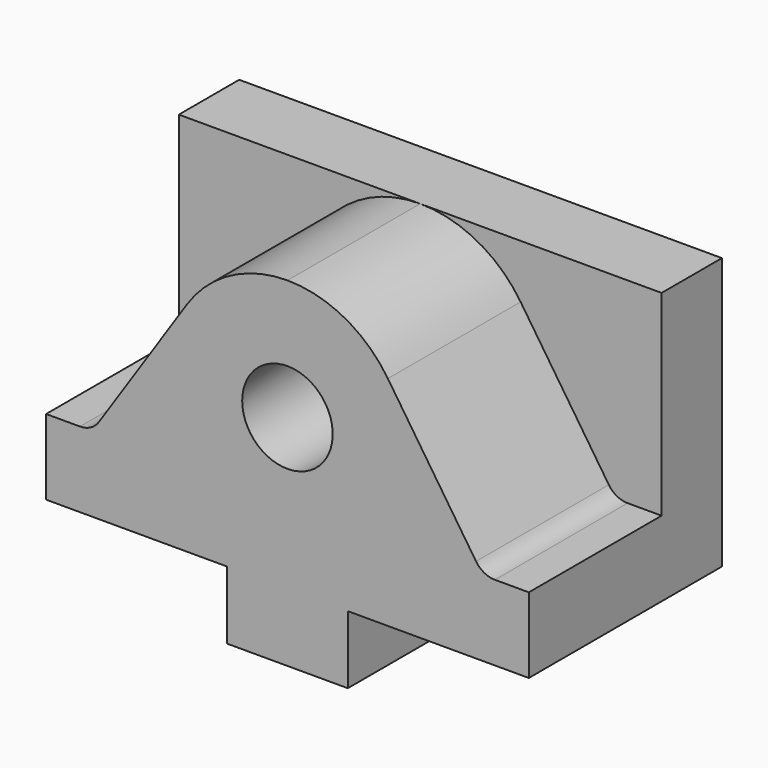
from build123d import *

# Parameters (mm, degrees)
F1_DEPTH = 5
F3_DEPTH = 22
F5_D     = 12
F5_DEPTH = 24
F5_TIP   = 3.6051637142
F7_D     = 6
F7_DEPTH = 16
F7_TIP   = 1.8025818571


with BuildPart() as f1:
    # F0 (on Front) → F1 (new body, symmetric)
    with BuildSketch(Plane.XZ):
        Polygon((32, -18), (32, 18), (-32, 18), (-32, -18), (-8, -18), (-8, -27), (8, -27), (8, -18), align=None)
    extrude(amount=F1_DEPTH, both=True)

    # F2 (on face) → F3 (join)
    with BuildSketch(Plane.XZ.offset(5)):
        with BuildLine():
            Line((-27.5, -8), (-32, -8))
            Line((-32, -8), (-32, -18))
            Line((-32, -18), (-8, -18))
            Line((-8, -18), (-8, -27))
            Line((-8, -27), (8, -27))
            Line((8, -27), (8, -18))
            Line((8, -18), (32, -18))
            Line((32, -18), (32, -8))
            Line((32, -8), (27.5, -8))
            ThreePointArc((27.5, -8), (26.0843309615, -7.6449728115), (25.0037292554, -6.6639207823))
            Line((25.0037292554, -6.6639207823), (13.3134439711, 10.8742441722))
            ThreePointArc((13.3134439711, 10.8742441722), (7.5502348479, 16.1065216741), (-5.46e-08, 18))
            ThreePointArc((-5.46e-08, 18), (-7.5502348961, 16.1065216483), (-13.3134439711, 10.8742441722))
            Line((-13.3134439711, 10.8742441722), (-25.0037292554, -6.6639207823))
            ThreePointArc((-25.0037292554, -6.6639207823), (-26.0843309615, -7.6449728115), (-27.5, -8))
        make_face()
    extrude(amount=F3_DEPTH)

    # F5
    with Locations(Plane.XZ.offset(27)):
        with Locations((0, 2)):
            Hole(F5_D / 2, depth=F5_DEPTH)
            with Locations((0, 0, -(F5_DEPTH + F5_TIP / 2))):  # 118° drill point
                Cone(0, F5_D / 2, F5_TIP, mode=Mode.SUBTRACT)

    # F7
    with Locations(Plane(origin=(0, 0, -27), x_dir=(1, 0, 0), z_dir=(0, 0, -1))):
        with Locations((0, 19), (0, 3)):
            Hole(F7_D / 2, depth=F7_DEPTH)
            with Locations((0, 0, -(F7_DEPTH + F7_TIP / 2))):  # 118° drill point
                Cone(0, F7_D / 2, F7_TIP, mode=Mode.SUBTRACT)


solid = f1.part
